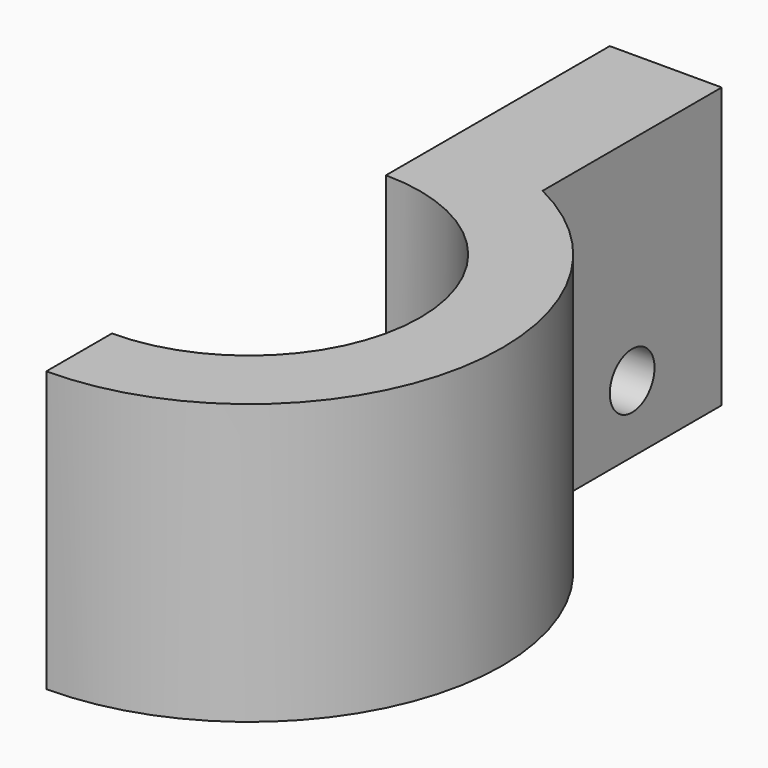
from build123d import *

# Parameters (mm, degrees)
PAD_DEPTH    = 31.75
SKETCH001_R  = 3.175
SKETCH001_W  = 2.54
SKETCH001_H  = 12.7
POCKET_DEPTH = 12.701


with BuildPart() as part:
    # Sketch → Pad (new body)
    with BuildSketch(Plane.XY):
        with BuildLine():
            Line((0, 51.181), (12.7, 51.181))
            Line((12.7, 51.181), (12.7, 25.781))
            ThreePointArc((0, -28.739345), (27.989989, -6.520004), (12.7, 25.781))
            Line((0, -19.431), (0, -28.739345))
            ThreePointArc((0, -19.431), (19.431, 0), (0, 19.431))
            Line((0, 51.181), (0, 19.431))
        make_face()
    extrude(amount=PAD_DEPTH)

    # Sketch001 (on Face2 of Pad) → Pocket (cut, through all)
    with BuildSketch(Plane.YZ.offset(12.7)):
        with Locations((38.481, 7.62)):
            Circle(SKETCH001_R)
        with Locations((27.051, 21.59)):
            Rectangle(SKETCH001_W, SKETCH001_H)
    extrude(amount=-POCKET_DEPTH, mode=Mode.SUBTRACT)


solid = part.part
